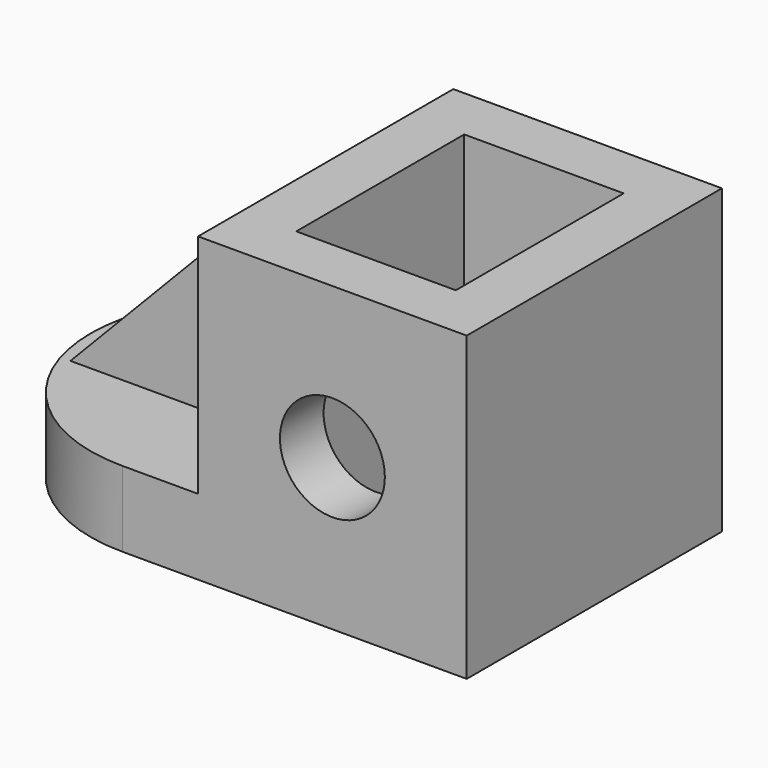
from build123d import *

# Parameters (mm, degrees)
F0_R     = 12.5
F1_DEPTH = 76
F2_W     = 38
F2_H     = 50
F3_DEPTH = 124
F5_DEPTH = 125.4
F7_DEPTH = 54
F9_DEPTH = 25


with BuildPart() as f1:
    # F0 (on Front) → F1 (new body)
    with BuildSketch(Plane.XZ):
        Polygon((0, 18), (0, 0), (120, 0), (120, 72), (56, 72), (56, 18), align=None)
        with Locations((88, 36)):
            Circle(F0_R, mode=Mode.SUBTRACT)
    extrude(amount=F1_DEPTH)

    # F2 (on face) → F3 (cut)
    with BuildSketch(Plane.XY.offset(72)):
        with Locations((88, -38)):
            Rectangle(F2_W, F2_H)
    extrude(amount=-F3_DEPTH, mode=Mode.SUBTRACT)

    # F4 (on face) → F5 (cut)
    with BuildSketch(Plane.XY.offset(18)):
        with BuildLine():
            ThreePointArc((0, -38), (11.129942, -11.129942), (38, 0))
            Line((38, 0), (0, 0))
            Line((0, 0), (0, -38))
        make_face()
        with BuildLine():
            ThreePointArc((38, -76), (11.129942, -64.870058), (0, -38))
            Line((0, -38), (0, -76))
            Line((0, -76), (38, -76))
        make_face()
    extrude(amount=-F5_DEPTH, mode=Mode.SUBTRACT)

    # F6 (on face) → F7 (join)
    with BuildSketch(Plane.XY.offset(18)):
        Polygon((56, -49), (56, -38), (56, -27), (4, -27), (4, -49), align=None)
    extrude(amount=F7_DEPTH)

    # F8 (on face) → F9 (cut)
    with BuildSketch(Plane.XZ.offset(49)):
        Polygon((4, 72), (4, 18), (56, 72), align=None)
    extrude(amount=-F9_DEPTH, mode=Mode.SUBTRACT)


solid = f1.part
